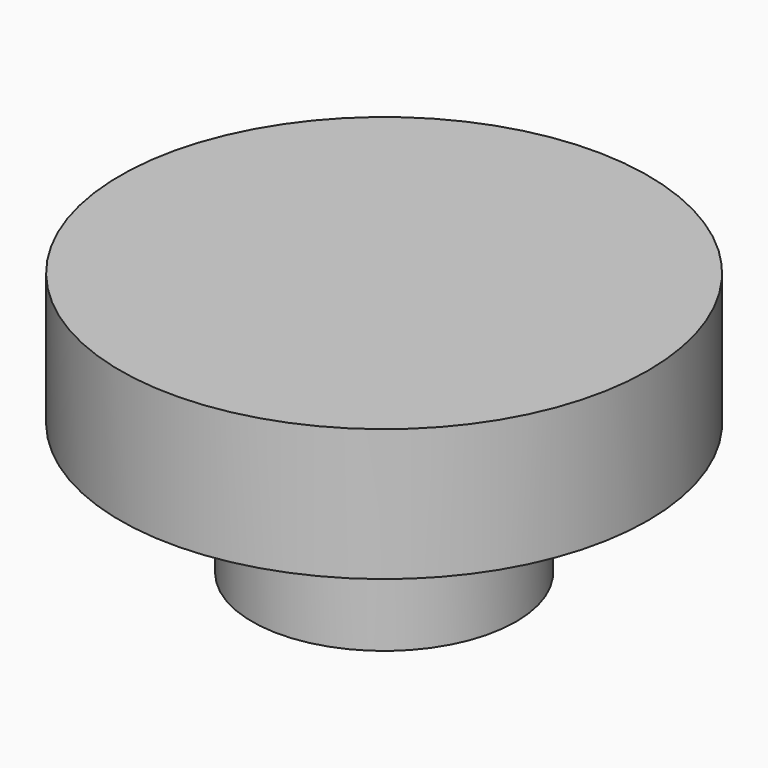
from build123d import *

# Parameters (mm, degrees)
F0_R     = 10
F1_DEPTH = 10
F2_R     = 20
F2_R_2   = 10
F3_DEPTH = 10


with BuildPart() as f1:
    # F0 (on Top) → F1 (new body)
    with BuildSketch(Plane.XY):
        Circle(F0_R)
    extrude(amount=F1_DEPTH)

    # F2 (on face) → F3 (join)
    with BuildSketch(Plane.XY.offset(10)):
        Circle(F2_R)
        Circle(F2_R_2, mode=Mode.SUBTRACT)
        Circle(F2_R_2)
    extrude(amount=F3_DEPTH)


solid = f1.part
